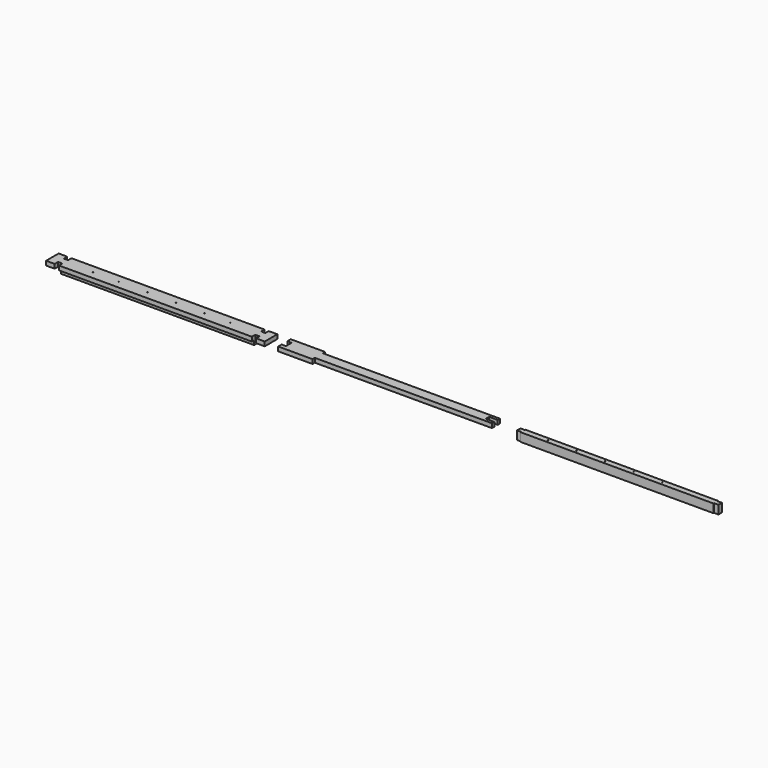
from build123d import *

# Parameters (mm, degrees)
F0_R     = 0.79375
F1_DEPTH = 19.05
F0_W     = 214.3125
F0_H     = 6.35
F2_DEPTH = 9.525
F3_DEPTH = 9.525
F4_DEPTH = 19.05


with BuildPart() as f1:
    # F0 (on Top) → F1 (new body)
    with BuildSketch(Plane.XY):
        Polygon((0, -11.1125), (0, 0), (0, 11.1125), (-214.3125, 11.1125), (-214.3125, 7.9375), (-214.3125, 0), (-214.3125, -7.9375), (-214.3125, -11.1125), align=None)
        with Locations((-152.4, 0)):
            Circle(F0_R, mode=Mode.SUBTRACT)
        with Locations((-95.25, 0)):
            Circle(F0_R, mode=Mode.SUBTRACT)
        with Locations((-31.75, 0)):
            Circle(F0_R, mode=Mode.SUBTRACT)
        Polygon((0, 11.1125), (0, 0), (0, -11.1125), (214.3125, -11.1125), (214.3125, -7.9375), (214.3125, 0), (214.3125, 7.9375), (214.3125, 11.1125), align=None)
        with Locations((31.75, 0)):
            Circle(F0_R, mode=Mode.SUBTRACT)
        with Locations((95.25, 0)):
            Circle(F0_R, mode=Mode.SUBTRACT)
        with Locations((152.4, 0)):
            Circle(F0_R, mode=Mode.SUBTRACT)
    extrude(amount=-F1_DEPTH)

    # F0 (on Top) → F2 (join)
    with BuildSketch(Plane.XY):
        Polygon((-214.3125, 0), (-214.3125, 7.9375), (-223.8375, 7.9375), (-223.8375, 17.4625), (-242.8875, 17.4625), (-242.8875, 0), (-242.8875, -17.4625), (-223.8375, -17.4625), (-223.8375, -7.9375), (-214.3125, -7.9375), align=None)
        Polygon((223.8375, 7.9375), (214.3125, 7.9375), (214.3125, 0), (214.3125, -7.9375), (223.8375, -7.9375), (223.8375, -17.4625), (242.8875, -17.4625), (242.8875, 0), (242.8875, 17.4625), (223.8375, 17.4625), align=None)
        with Locations((107.15625, 14.2875)):
            Rectangle(F0_W, F0_H)
        with Locations((-107.15625, 14.2875)):
            Rectangle(F0_W, F0_H)
        with Locations((-107.15625, -14.2875)):
            Rectangle(F0_W, F0_H)
        with Locations((107.15625, -14.2875)):
            Rectangle(F0_W, F0_H)
    extrude(amount=-F2_DEPTH)


with BuildPart() as f3:
    # F0 (on Top) → F3 (new body)
    with BuildSketch(Plane.XY):
        Polygon((349.006027, 17.4625), (272.755325, 17.4625), (272.755325, 7.9375), (282.280325, 7.9375), (282.280325, -7.9375), (272.755325, -7.9375), (272.755325, -17.4625), (349.006027, -17.4625), (349.006027, -11.1125), (742.706027, -11.1125), (742.706027, -4.7625), (723.656027, -4.7625), (723.656027, 4.7625), (742.706027, 4.7625), (742.706027, 11.1125), (349.006027, 11.1125), align=None)
    extrude(amount=-F3_DEPTH)


with BuildPart() as f4:
    # F0 (on Top) → F4 (new body)
    with BuildSketch(Plane.XY):
        Polygon((793.173909, 4.7625), (793.173909, -4.7625), (802.698909, -4.7625), (802.698909, -6.35), (1231.323909, -6.35), (1231.323909, -4.7625), (1240.848909, -4.7625), (1240.848909, 4.7625), (1231.323909, 4.7625), (1231.323909, 6.35), (802.698909, 6.35), (802.698909, 4.7625), align=None)
        with Locations((858.261409, 0)):
            Circle(F0_R, mode=Mode.SUBTRACT)
        with Locations((921.761409, 0)):
            Circle(F0_R, mode=Mode.SUBTRACT)
        with Locations((985.261409, 0)):
            Circle(F0_R, mode=Mode.SUBTRACT)
        with Locations((1048.761409, 0)):
            Circle(F0_R, mode=Mode.SUBTRACT)
        with Locations((1112.261409, 0)):
            Circle(F0_R, mode=Mode.SUBTRACT)
        with Locations((1175.761409, 0)):
            Circle(F0_R, mode=Mode.SUBTRACT)
    extrude(amount=-F4_DEPTH)


solid = Compound([f1.part, f3.part, f4.part])
